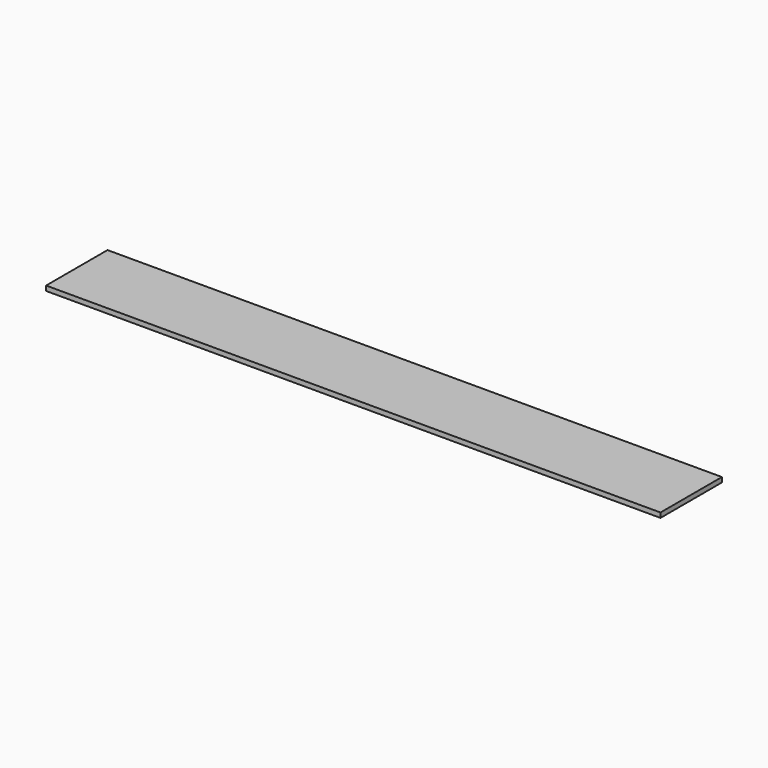
from build123d import *

# Parameters (mm, degrees)
F0_W     = 125
F0_H     = 15
F1_DEPTH = 1
F2_W     = 128
F2_H     = 16
F3_DEPTH = 1


with BuildPart() as f1:
    # F0 (on Top) → F1 (new body)
    with BuildSketch(Plane.XY):
        Rectangle(F0_W, F0_H)
    extrude(amount=F1_DEPTH)

    # F2 (on Top) → F3 (join)
    with BuildSketch(Plane.XY):
        Rectangle(F2_W, F2_H)
    extrude(amount=F3_DEPTH)


solid = f1.part
